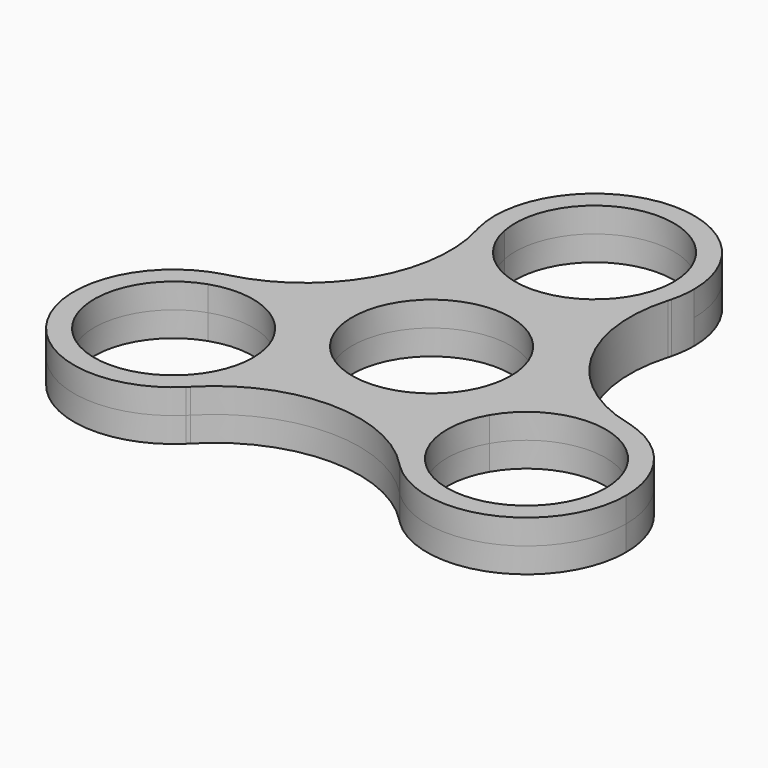
from build123d import *

# Parameters (mm, degrees)
F1_DEPTH = 3.5052


with BuildPart() as f1:
    # F0 (on Top) → F1 (new body, symmetric)
    with BuildSketch(Plane.XY):
        with BuildLine():
            ThreePointArc((10.9123688672, 26.4092944), (12.2452222147, 25.8183105162), (13.5461962881, 25.1601111111))
            ThreePointArc((13.5461962881, 25.1601111111), (13.8636442205, 26.8544567929), (13.97, 28.575))
            ThreePointArc((13.97, 28.575), (-1.7205432071, 42.4386442205), (-13.5461962881, 25.1601111111))
            ThreePointArc((-13.5461962881, 25.1601111111), (-12.2452222147, 25.8183105162), (-10.9123688672, 26.4092944))
            ThreePointArc((-10.9123688672, 26.4092944), (-1.0880691427, 39.6468643679), (11.1252, 28.575))
            ThreePointArc((11.1252, 28.575), (11.0718643679, 27.4869308573), (10.9123688672, 26.4092944))
        make_face()
        with BuildLine():
            ThreePointArc((13.4157103354, 24.6788973069), (13.4831003065, 24.9189220298), (13.5461962881, 25.1601111111))
            ThreePointArc((13.5461962881, 25.1601111111), (12.2452222147, 25.8183105162), (10.9123688672, 26.4092944))
            ThreePointArc((10.9123688672, 26.4092944), (0, 17.4498), (-10.9123688672, 26.4092944))
            ThreePointArc((-10.9123688672, 26.4092944), (-12.2452222147, 25.8183105162), (-13.5461962881, 25.1601111111))
            ThreePointArc((-13.5461962881, 25.1601111111), (-13.4831003065, 24.9189220298), (-13.4157103354, 24.6788973069))
            ThreePointArc((-13.4157103354, 24.6788973069), (0, 14.605), (13.4157103354, 24.6788973069))
        make_face()
        with BuildLine():
            ThreePointArc((28.0804071729, -0.7211026931), (15.3318346185, 8.8518388441), (13.4157103354, 24.6788973069))
            ThreePointArc((13.4157103354, 24.6788973069), (0, 14.605), (-13.4157103354, 24.6788973069))
            ThreePointArc((-13.4157103354, 24.6788973069), (-15.3318346185, 8.8518388441), (-28.0804071729, -0.7211026931))
            ThreePointArc((-28.0804071729, -0.7211026931), (-19.2663983542, -1.4373070879), (-12.6483010223, -7.3025))
            Line((-12.6483010223, -7.3025), (-9.6347058222, -5.5626))
            ThreePointArc((-9.6347058222, -5.5626), (-2.8794136406, 10.7461180026), (11.1252, 0))
            ThreePointArc((11.1252, 0), (10.7461180026, -2.8794136406), (9.6347058222, -5.5626))
            Line((9.6347058222, -5.5626), (12.6483010223, -7.3025))
            ThreePointArc((12.6483010223, -7.3025), (19.2663983542, -1.4373070879), (28.0804071729, -0.7211026931))
        make_face()
        with BuildLine():
            ThreePointArc((28.32730428, -3.7542585455), (28.4819238972, -2.3044817452), (28.5623935283, -0.8487054454))
            ThreePointArc((28.5623935283, -0.8487054454), (28.321969666, -0.7827536277), (28.0804071729, -0.7211026931))
            ThreePointArc((28.0804071729, -0.7211026931), (19.2663983542, -1.4373070879), (12.6483010223, -7.3025))
            Line((12.6483010223, -7.3025), (15.111970091, -8.7249))
            ThreePointArc((15.111970091, -8.7249), (20.8300724642, -3.8745132784), (28.32730428, -3.7542585455))
        make_face()
        with BuildLine():
            ThreePointArc((38.7166759131, -14.2875), (35.8926723936, -5.8656437641), (28.5623935283, -0.8487054454))
            ThreePointArc((28.5623935283, -0.8487054454), (28.4819238972, -2.3044817452), (28.32730428, -3.7542585455))
            ThreePointArc((28.32730428, -3.7542585455), (33.7911571516, -7.8092722974), (35.8718759131, -14.2875))
            ThreePointArc((35.8718759131, -14.2875), (29.3403125785, -24.4200503812), (17.4149354128, -22.6550358545))
            ThreePointArc((17.4149354128, -22.6550358545), (16.2367016825, -23.513828771), (15.0161972402, -24.3114056657))
            ThreePointArc((15.0161972402, -24.3114056657), (30.1884638978, -27.1540396875), (38.7166759131, -14.2875))
        make_face()
        with BuildLine():
            ThreePointArc((17.4149354128, -22.6550358545), (13.7704631585, -16.1021152775), (15.111970091, -8.7249))
            Line((15.111970091, -8.7249), (12.6483010223, -7.3025))
            ThreePointArc((12.6483010223, -7.3025), (10.8779436283, -15.9665368702), (14.6646968374, -23.9577946137))
            ThreePointArc((14.6646968374, -23.9577946137), (14.8388693595, -24.1361684021), (15.0161972402, -24.3114056657))
            ThreePointArc((15.0161972402, -24.3114056657), (16.2367016825, -23.513828771), (17.4149354128, -22.6550358545))
        make_face()
        with BuildLine():
            ThreePointArc((14.6646968374, -23.9577946137), (10.8779436283, -15.9665368702), (12.6483010223, -7.3025))
            Line((12.6483010223, -7.3025), (9.6347058222, -5.5626))
            ThreePointArc((9.6347058222, -5.5626), (0, -11.1252), (-9.6347058222, -5.5626))
            Line((-9.6347058222, -5.5626), (-12.6483010223, -7.3025))
            ThreePointArc((-12.6483010223, -7.3025), (-11.2526921199, -10.6717979399), (-10.7766759131, -14.2875))
            ThreePointArc((-10.7766759131, -14.2875), (-11.7850759408, -19.498817123), (-14.6646968374, -23.9577946137))
            ThreePointArc((-14.6646968374, -23.9577946137), (0, -17.7036776883), (14.6646968374, -23.9577946137))
        make_face()
        with BuildLine():
            ThreePointArc((-17.4149354128, -22.6550358545), (-16.2367016825, -23.513828771), (-15.0161972402, -24.3114056657))
            ThreePointArc((-15.0161972402, -24.3114056657), (-14.8388693595, -24.1361684021), (-14.6646968374, -23.9577946137))
            ThreePointArc((-14.6646968374, -23.9577946137), (-11.7850759408, -19.498817123), (-10.7766759131, -14.2875))
            ThreePointArc((-10.7766759131, -14.2875), (-11.2526921199, -10.6717979399), (-12.6483010223, -7.3025))
            Line((-12.6483010223, -7.3025), (-15.111970091, -8.7249))
            ThreePointArc((-15.111970091, -8.7249), (-14.0005579105, -11.4080863594), (-13.6214759131, -14.2875))
            ThreePointArc((-13.6214759131, -14.2875), (-14.614125532, -18.8811366653), (-17.4149354128, -22.6550358545))
        make_face()
        with BuildLine():
            ThreePointArc((-12.6483010223, -7.3025), (-19.2663983542, -1.4373070879), (-28.0804071729, -0.7211026931))
            ThreePointArc((-28.0804071729, -0.7211026931), (-28.321969666, -0.7827536277), (-28.5623935283, -0.8487054454))
            ThreePointArc((-28.5623935283, -0.8487054454), (-28.4819238972, -2.3044817452), (-28.32730428, -3.7542585455))
            ThreePointArc((-28.32730428, -3.7542585455), (-20.8300724642, -3.8745132784), (-15.111970091, -8.7249))
            Line((-15.111970091, -8.7249), (-12.6483010223, -7.3025))
        make_face()
        with BuildLine():
            ThreePointArc((-28.32730428, -3.7542585455), (-28.4819238972, -2.3044817452), (-28.5623935283, -0.8487054454))
            ThreePointArc((-28.5623935283, -0.8487054454), (-36.845050804, -21.2725), (-15.0161972402, -24.3114056657))
            ThreePointArc((-15.0161972402, -24.3114056657), (-16.2367016825, -23.513828771), (-17.4149354128, -22.6550358545))
            ThreePointArc((-17.4149354128, -22.6550358545), (-34.3813817353, -19.8501), (-28.32730428, -3.7542585455))
        make_face()
    extrude(amount=F1_DEPTH, both=True)


solid = f1.part
